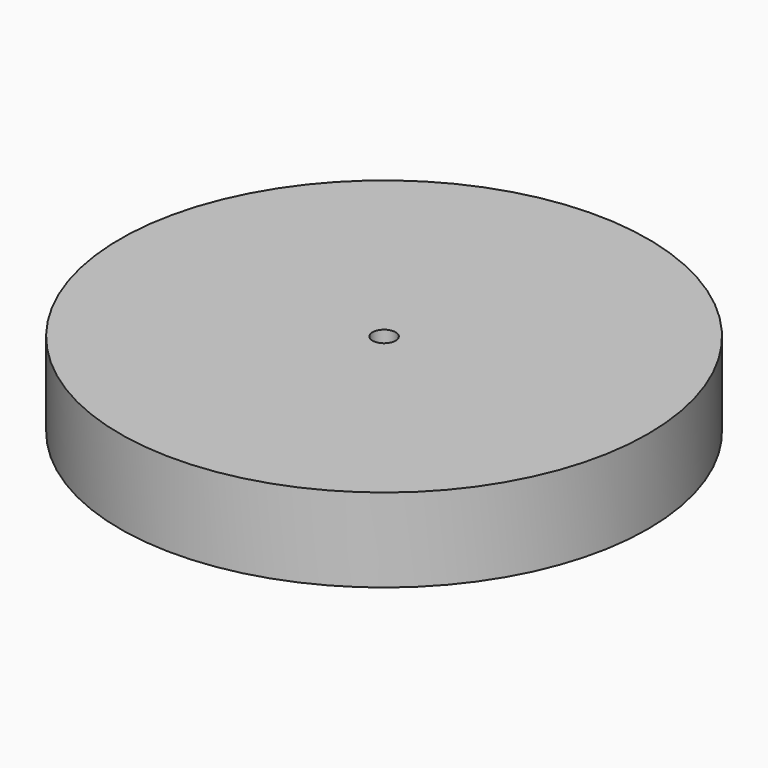
from build123d import *

# Parameters (mm, degrees)
F0_R     = 36.6
F0_R_2   = 35
F0_R_3   = 14.4
F0_R_4   = 12.8
F1_DEPTH = 10
F2_R     = 36.6
F3_DEPTH = 1.6
F4_R     = 12.8
F5_DEPTH = 6
F6_W     = 40.892508
F6_H     = 6
F7_DEPTH = 8
F8_R     = 1.6
F9_DEPTH = 25


with BuildPart() as f1:
    # F0 (on Top) → F1 (new body)
    with BuildSketch(Plane.XY):
        Circle(F0_R)
        Circle(F0_R_2, mode=Mode.SUBTRACT)
        Circle(F0_R_3)
        Circle(F0_R_4, mode=Mode.SUBTRACT)
    extrude(amount=F1_DEPTH)

    # F2 (on face) → F3 (join)
    with BuildSketch(Plane.XY.offset(10)):
        Circle(F2_R)
    extrude(amount=F3_DEPTH)

    # F4 (on face) → F5 (join)
    with BuildSketch(Plane(origin=(0, 0, 10), x_dir=(1, 0, 0), z_dir=(0, 0, -1))):
        Circle(F4_R)
    extrude(amount=F5_DEPTH)

    # F6 (on face) → F7 (cut)
    with BuildSketch(Plane(origin=(0, 0, 0), x_dir=(1, 0, 0), z_dir=(0, 0, -1))):
        Rectangle(F6_W, F6_H)
    extrude(amount=-F7_DEPTH, mode=Mode.SUBTRACT)

    # F8 (on face) → F9 (cut)
    with BuildSketch(Plane(origin=(0, 0, 8), x_dir=(1, 0, 0), z_dir=(0, 0, -1))):
        Circle(F8_R)
    extrude(amount=-F9_DEPTH, mode=Mode.SUBTRACT)


solid = f1.part
